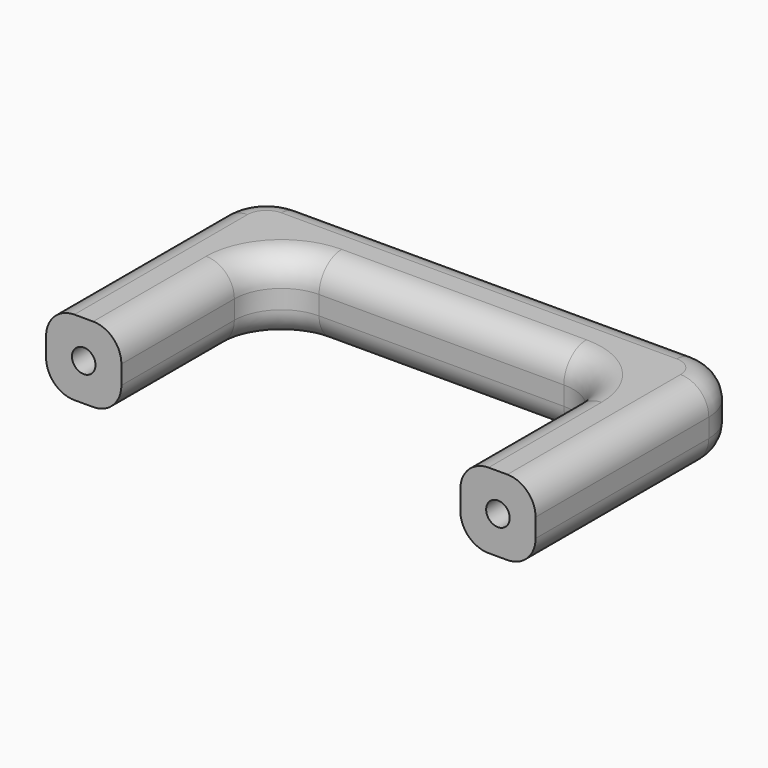
from build123d import *

# Parameters (mm, degrees)
F1_DEPTH = 8
F2_R     = 5
F3_R     = 3
F4_R     = 1.25
F5_DEPTH = 15


with BuildPart() as f1:
    # F0 (on Top) → F1 (new body)
    with BuildSketch(Plane.XY):
        Polygon((44, -30.975605), (-8, -30.975605), (-8, -58.975605), (0, -58.975605), (0, -38.975605), (36, -38.975605), (36, -58.975605), (44, -58.975605), align=None)
    extrude(amount=F1_DEPTH)

    # F2
    f2_edges = [f1.edges().sort_by_distance(p)[0] for p in [
        (-8, -30.975605, 4),
        (44, -30.975605, 4),
        (0, -38.975605, 4),
        (36, -38.975605, 4),
    ]]
    fillet(f2_edges, radius=F2_R)

    # F3
    f3_edges = [f1.edges().sort_by_distance(p)[0] for p in [
        (18, -38.975605, 8),
        (44, -47.475605, 8),
        (44, -47.475605, 0),
        (36, -51.475605, 0),
    ]]
    fillet(f3_edges, radius=F3_R)

    # F4 (on face) → F5 (cut)
    with BuildSketch(Plane.XZ.offset(58.975605)):
        with Locations((40, 4)):
            Circle(F4_R)
        with Locations((-4, 4)):
            Circle(F4_R)
    extrude(amount=-F5_DEPTH, mode=Mode.SUBTRACT)


solid = f1.part
